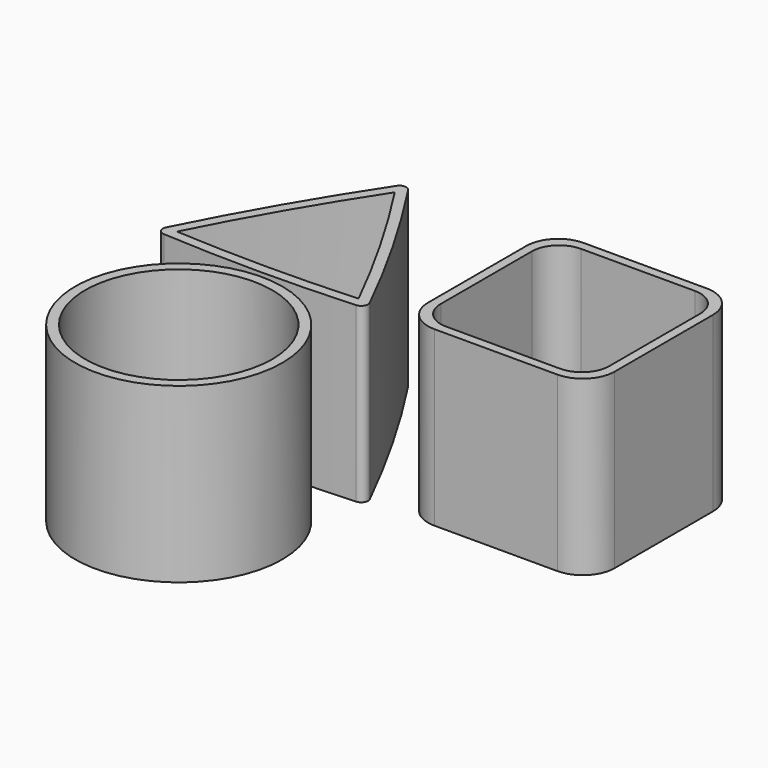
from build123d import *

# Parameters (mm, degrees)
F1_DEPTH = 38
F2_R     = 22.75
F2_R_2   = 20.55
F3_DEPTH = 38
F5_DEPTH = 38
F6_T     = -2.2
F7_DEPTH = 2.201


with BuildPart() as f1:
    # F0 (on Top) → F1 (new body)
    with BuildSketch(Plane.XY):
        with BuildLine():
            ThreePointArc((0, 8.9910072129), (2.0502525317, 4.0412597446), (7, 1.9910072129))
            Line((7, 1.9910072129), (34, 1.9910072129))
            ThreePointArc((34, 1.9910072129), (38.9497474683, 4.0412597446), (41, 8.9910072129))
            Line((41, 8.9910072129), (41, 35.9910072129))
            ThreePointArc((41, 35.9910072129), (38.9497474683, 40.9407546812), (34, 42.9910072129))
            Line((34, 42.9910072129), (7, 42.9910072129))
            ThreePointArc((7, 42.9910072129), (2.0502525317, 40.9407546812), (0, 35.9910072129))
            Line((0, 35.9910072129), (0, 22.4910072129))
            Line((0, 22.4910072129), (0, 8.9910072129))
        make_face()
        with BuildLine():
            ThreePointArc((39, 9.9910072129), (37.2426406871, 5.7483665258), (33, 3.9910072129))
            Line((33, 3.9910072129), (8, 3.9910072129))
            ThreePointArc((8, 3.9910072129), (3.7573593129, 5.7483665258), (2, 9.9910072129))
            Line((2, 9.9910072129), (2, 34.9910072129))
            ThreePointArc((2, 34.9910072129), (3.7573593129, 39.2336479001), (8, 40.9910072129))
            Line((8, 40.9910072129), (33, 40.9910072129))
            ThreePointArc((33, 40.9910072129), (37.2426406871, 39.2336479001), (39, 34.9910072129))
            Line((39, 34.9910072129), (39, 9.9910072129))
        make_face(mode=Mode.SUBTRACT)
    extrude(amount=F1_DEPTH)


with BuildPart() as f3:
    # F2 (on Top) → F3 (new body)
    with BuildSketch(Plane.XY):
        with Locations((-28.2784160227, -24.1031274199)):
            Circle(F2_R)
        with Locations((-28.2784160227, -24.1031274199)):
            Circle(F2_R_2, mode=Mode.SUBTRACT)
    extrude(amount=F3_DEPTH)


with BuildPart() as f5:
    # F4 (on Top) → F5 (new body)
    with BuildSketch(Plane.XY):
        with BuildLine():
            ThreePointArc((-28.7998646526, 39.532812998), (-30.0506364627, 40.2104318074), (-31.3047349468, 39.5389898039))
            ThreePointArc((-31.3047349468, 39.5389898039), (-42.4943980882, 21.466830838), (-52.5499049688, 2.7398910912))
            ThreePointArc((-52.5499049688, 2.7398910912), (-52.5060332038, 1.3210913906), (-51.298973707, 0.5741478228))
            ThreePointArc((-51.298973707, 0.5741478228), (-30.1704969459, -0.0730919584), (-9.042041151, 0.5748318822))
            ThreePointArc((-9.042041151, 0.5748318822), (-7.8367441382, 1.3188127966), (-7.7881021186, 2.7343983447))
            ThreePointArc((-7.7881021186, 2.7343983447), (-17.7284776593, 21.456507409), (-28.7998646526, 39.532812998))
        make_face()
    extrude(amount=F5_DEPTH)

    # F6
    f6_openings = [f5.faces().sort_by_distance(p)[0] for p in [
        (-30.13542, 14.290954, 38),
    ]]
    offset(amount=F6_T, openings=f6_openings)

    # F7 (cut, through all): a face of the model
    f7_faces = [f5.faces().sort_by_distance(p)[0] for p in [
        (-30.1328701293, 14.2864664874, 2.2),
    ]]
    extrude(f7_faces, amount=-F7_DEPTH, mode=Mode.SUBTRACT)


solid = Compound([f1.part, f3.part, f5.part])
